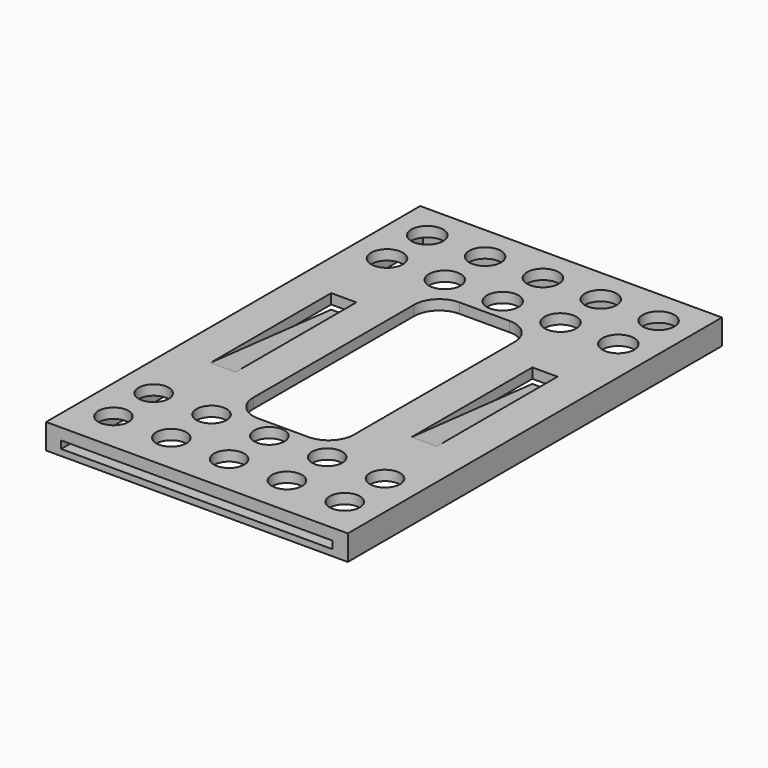
from build123d import *

# Parameters (mm, degrees)
F0_W      = 60
F0_H      = 93
F0_W_2    = 54
F0_H_2    = 87
F1_DEPTH  = 3
F2_W      = 60
F2_H      = 93
F2_W_2    = 5
F2_H_2    = 30
F3_DEPTH  = 2
F5_DEPTH  = 5
F7_DEPTH  = 5
F8_W      = 54
F8_H      = 1.5
F9_DEPTH  = 5
F11_DEPTH = 54
F12_R     = 3.152698
F12_R_2   = 3
F13_DEPTH = 25


with BuildPart() as f1:
    # F0 (on Top) → F1 (new body)
    with BuildSketch(Plane.XY):
        Rectangle(F0_W, F0_H)
        Rectangle(F0_W_2, F0_H_2, mode=Mode.SUBTRACT)
    extrude(amount=F1_DEPTH)

    # F2 (on face) → F3 (join)
    with BuildSketch(Plane.XY.offset(3)):
        Rectangle(F2_W, F2_H)
        with Locations((-20, 0)):
            Rectangle(F2_W_2, F2_H_2, mode=Mode.SUBTRACT)
        with BuildLine():
            Line((-5, 25), (5, 25))
            ThreePointArc((5, 25), (8.535534, 23.535534), (10, 20))
            Line((10, 20), (10, -20))
            ThreePointArc((10, -20), (8.535534, -23.535534), (5, -25))
            Line((5, -25), (-5, -25))
            ThreePointArc((-5, -25), (-8.535534, -23.535534), (-10, -20))
            Line((-10, -20), (-10, 20))
            ThreePointArc((-10, 20), (-8.535534, 23.535534), (-5, 25))
        make_face(mode=Mode.SUBTRACT)
        with Locations((20, 0)):
            Rectangle(F2_W_2, F2_H_2, mode=Mode.SUBTRACT)
    extrude(amount=F3_DEPTH)

    # F4 (on face) → F5 (join)
    with BuildSketch(Plane(origin=(-17.5, 0, 0), x_dir=(0, -1, 0), z_dir=(-1, 0, 0))):
        Polygon((15, 3), (15, 5), (-15, 2.111329), (-15, 0.111329), align=None)
    extrude(amount=F5_DEPTH)

    # F6 (on face) → F7 (join)
    with BuildSketch(Plane.YZ.offset(17.5)):
        Polygon((15, 2.111329), (-15, 5), (-15, 3), (15, 0.111329), align=None)
    extrude(amount=F7_DEPTH)

    # F8 (on face) → F9 (cut)
    with BuildSketch(Plane.XZ.offset(46.5)):
        with Locations((0, 2)):
            Rectangle(F8_W, F8_H)
    extrude(amount=-F9_DEPTH, mode=Mode.SUBTRACT)

    # F10 (on face) → F11 (join, through all)
    with BuildSketch(Plane(origin=(27, 0, 0), x_dir=(0, -1, 0), z_dir=(-1, 0, 0))):
        Polygon((43.5, 0), (43.5, 1.25), (42.25, 0), align=None)
    extrude(amount=F11_DEPTH)

    # F12 (on face) → F13 (cut)
    with BuildSketch(Plane.XY.offset(5)):
        with Locations((-23, 39.5)):
            Circle(F12_R)
        with Locations((-23, 29.5)):
            Circle(F12_R)
        with Locations((-11.5, 39.5)):
            Circle(F12_R)
        with Locations((-11.5, 29.5)):
            Circle(F12_R)
        with Locations((0, 39.5)):
            Circle(F12_R)
        with Locations((0, 29.5)):
            Circle(F12_R)
        with Locations((11.5, 39.5)):
            Circle(F12_R)
        with Locations((11.5, 29.5)):
            Circle(F12_R)
        with Locations((23, 39.5)):
            Circle(F12_R)
        with Locations((23, 29.5)):
            Circle(F12_R)
        with Locations((-23, -38.5)):
            Circle(F12_R_2)
        with Locations((-23, -28.5)):
            Circle(F12_R_2)
        with Locations((-11.5, -38.5)):
            Circle(F12_R_2)
        with Locations((-11.5, -28.5)):
            Circle(F12_R_2)
        with Locations((0, -38.5)):
            Circle(F12_R_2)
        with Locations((0, -28.5)):
            Circle(F12_R_2)
        with Locations((11.5, -38.5)):
            Circle(F12_R_2)
        with Locations((11.5, -28.5)):
            Circle(F12_R_2)
        with Locations((23, -38.5)):
            Circle(F12_R_2)
        with Locations((23, -28.5)):
            Circle(F12_R_2)
    extrude(amount=-F13_DEPTH, mode=Mode.SUBTRACT)


solid = f1.part
